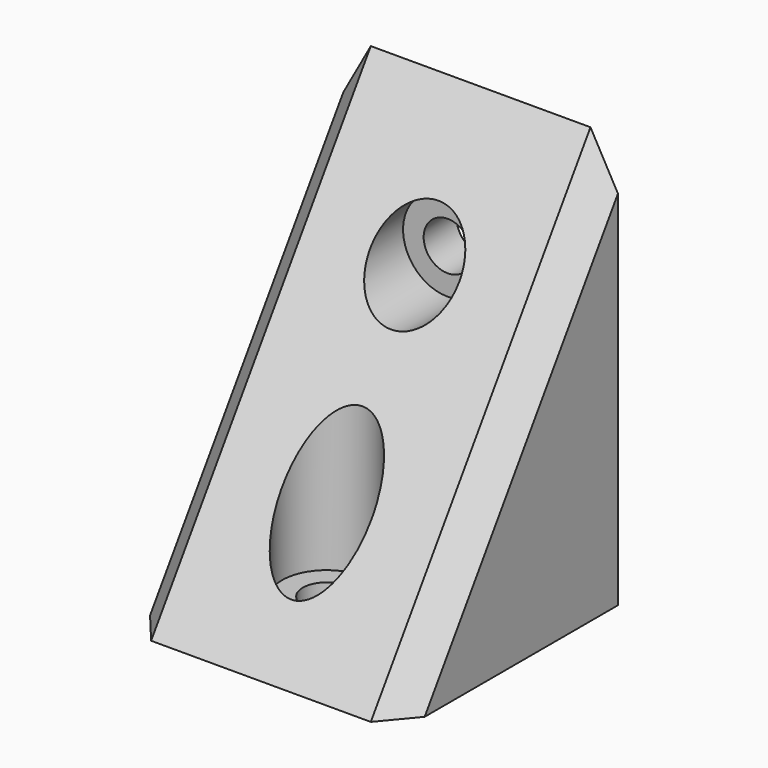
from build123d import *

# Parameters (mm, degrees)
F0_W     = 20
F0_H     = 30
F1_DEPTH = 20
F2_R     = 3.25
F2_R_2   = 1.75
F3_DEPTH = 17
F4_DEPTH = 20.001
F7_DEPTH = 20.001
F5_R     = 3.25
F5_R_2   = 1.75
F8_DEPTH = 27
F9_DEPTH = 30.001
F10_SIZE = 2


with BuildPart() as f1:
    # F0 (on Front) → F1 (new body)
    with BuildSketch(Plane.XZ):
        with Locations((10, 15)):
            Rectangle(F0_W, F0_H)
    extrude(amount=F1_DEPTH)

    # F2 (on face) → F3 (cut)
    with BuildSketch(Plane.XZ.offset(20)):
        with Locations((10, 21)):
            Circle(F2_R)
        with Locations((10, 21)):
            Circle(F2_R_2, mode=Mode.SUBTRACT)
    extrude(amount=-F3_DEPTH, mode=Mode.SUBTRACT)

    # F4 (cut, through all): a face of the model
    f4_faces = [f1.faces().sort_by_distance(p)[0] for p in [
        (10, -20, 21),
    ]]
    extrude(f4_faces, amount=-F4_DEPTH, mode=Mode.SUBTRACT)

    # F6 (on face) → F7 (cut, through all)
    with BuildSketch(Plane(origin=(0, 0, 0), x_dir=(0, -1, 0), z_dir=(-1, 0, 0))):
        Polygon((20, 30), (0, 30), (20, 0), align=None)
    extrude(amount=-F7_DEPTH, mode=Mode.SUBTRACT)

    # F5 (on face) → F8 (cut)
    with BuildSketch(Plane.XY.offset(30)):
        with Locations((10, -14)):
            Circle(F5_R)
        with Locations((10, -14)):
            Circle(F5_R_2, mode=Mode.SUBTRACT)
    extrude(amount=-F8_DEPTH, mode=Mode.SUBTRACT)

    # F5 (on face) → F9 (cut, through all)
    with BuildSketch(Plane.XY.offset(30)):
        with Locations((10, -14)):
            Circle(F5_R_2)
    extrude(amount=-F9_DEPTH, mode=Mode.SUBTRACT)

    # F10
    f10_edges = [f1.edges().sort_by_distance(p)[0] for p in [
        (0, -10, 15),
        (20, -10, 15),
    ]]
    chamfer(f10_edges, length=F10_SIZE)


solid = f1.part
